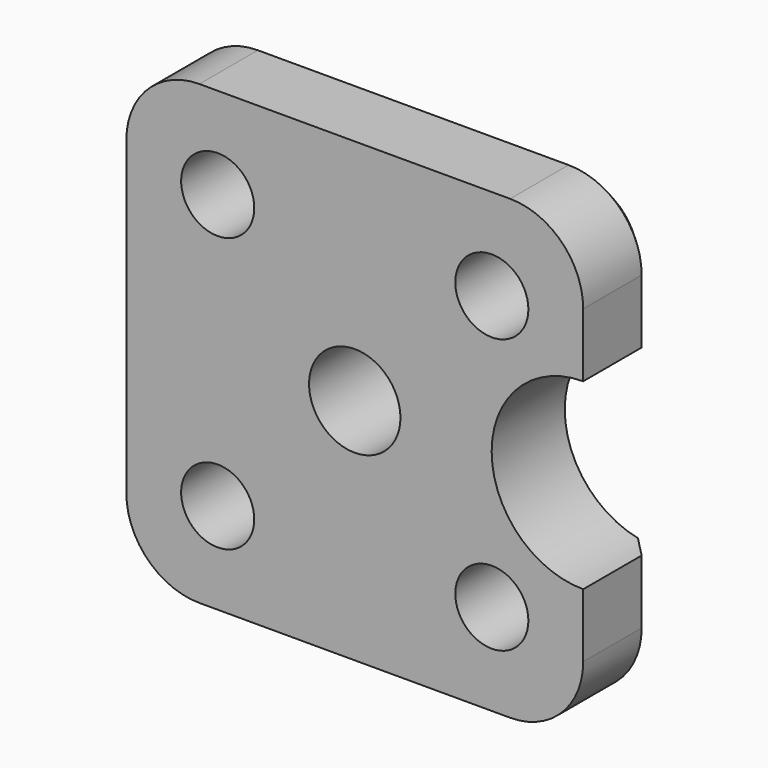
from build123d import *

# Parameters (mm, degrees)
F0_W     = 127
F0_H     = 127
F0_R     = 10.16
F0_R_2   = 12.7
F1_DEPTH = 25.4
F2_R     = 20.32
F3_SIZE  = 5.08
F5_DEPTH = 50.8964881301


with BuildPart() as f1:
    # F0 (on Front) → F1 (new body)
    with BuildSketch(Plane.XZ):
        Rectangle(F0_W, F0_H)
        with Locations((-38.1, -38.1)):
            Circle(F0_R, mode=Mode.SUBTRACT)
        with Locations((38.1, -38.1)):
            Circle(F0_R, mode=Mode.SUBTRACT)
        with Locations((-38.1, 38.1)):
            Circle(F0_R, mode=Mode.SUBTRACT)
        Circle(F0_R_2, mode=Mode.SUBTRACT)
        with Locations((38.1, 38.1)):
            Circle(F0_R, mode=Mode.SUBTRACT)
    extrude(amount=F1_DEPTH)

    # F2
    f2_edges = [f1.edges().sort_by_distance(p)[0] for p in [
        (63.5, -12.7, 63.5),
        (-63.5, -12.7, 63.5),
        (63.5, -12.7, -63.5),
        (-63.5, -12.7, -63.5),
    ]]
    fillet(f2_edges, radius=F2_R)

    # F3
    f3_edges = [f1.edges().sort_by_distance(p)[0] for p in [
        (0, 0, -63.5),
    ]]
    chamfer(f3_edges, length=F3_SIZE)

    # F4 (on face) → F5 (cut)
    with BuildSketch(Plane.XZ.offset(25.4)):
        with BuildLine():
            Line((63.5, -25.4435916758), (63.5, 25.4435916758))
            ThreePointArc((63.5, 25.4435916758), (38.0564083242, 0), (63.5, -25.4435916758))
        make_face()
    extrude(amount=-F5_DEPTH, mode=Mode.SUBTRACT)


solid = f1.part
